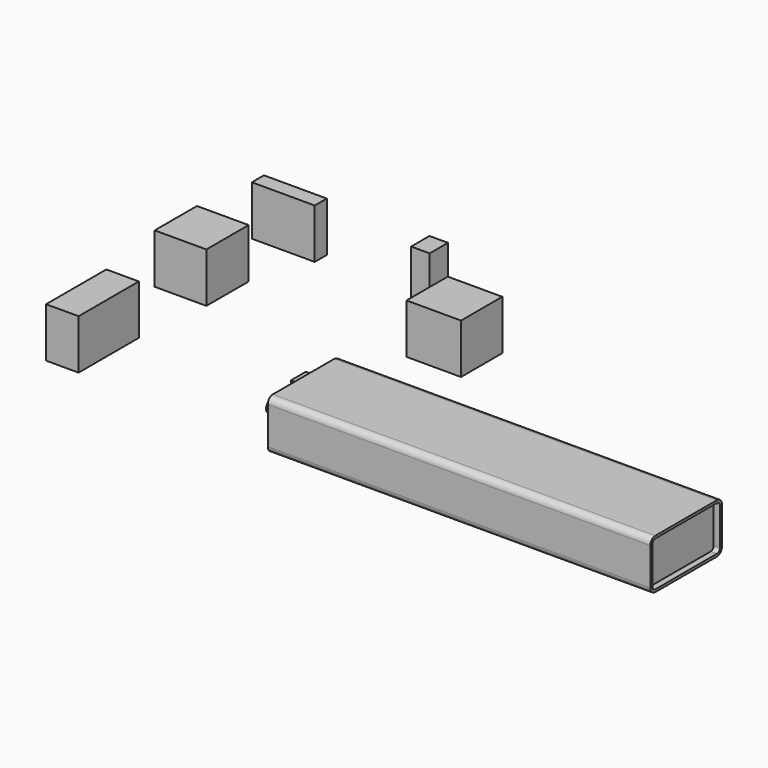
from build123d import *

# Parameters (mm, degrees)
F0_W     = 16.618398
F0_H     = 38.506252
F0_W_2   = 26.423264
F0_H_2   = 27.000825
F0_W_3   = 32.138111
F0_H_3   = 7.713083
F0_W_4   = 9.466055
F0_H_4   = 11.701052
F0_W_5   = 27.874055
F0_H_5   = 26.37086
F0_W_6   = 195.58
F0_H_6   = 45.72
F1_DEPTH = 25.4
F2_R     = 3.175
F4_DEPTH = 3.175
F6_DEPTH = 3.175
F7_W     = 9.525
F7_H     = 12.7
F7_R     = 3.175
F8_DEPTH = 12.7


with BuildPart() as f1:
    # F0 (on Top) → F1 (new body)
    with BuildSketch(Plane.XY):
        with Locations((-78.119632, -48.44503)):
            Rectangle(F0_W, F0_H)
        with Locations((-79.23726, 22.737014)):
            Rectangle(F0_W_2, F0_H_2)
        with Locations((-72.070883, 69.790199)):
            Rectangle(F0_W_3, F0_H_3)
        with Locations((0.943256, 68.12576)):
            Rectangle(F0_W_4, F0_H_4)
        with Locations((37.811639, 37.912922)):
            Rectangle(F0_W_5, F0_H_5)
        with Locations((130.713382, -52.349573)):
            Rectangle(F0_W_6, F0_H_6)
    extrude(amount=F1_DEPTH)

    # F2
    f2_edges = [f1.edges().sort_by_distance(p)[0] for p in [
        (130.713382, -75.209573, 25.4),
        (130.713382, -75.209573, 0),
        (130.713382, -29.489573, 0),
        (130.713382, -29.489573, 25.4),
    ]]
    fillet(f2_edges, radius=F2_R)

    # F3 (on face) → F4 (cut)
    with BuildSketch(Plane.YZ.offset(228.503382)):
        with BuildLine():
            ThreePointArc((-73.939573, 22.225), (-72.034573, 20.32), (-70.129573, 22.225))
            ThreePointArc((-70.129573, 22.225), (-70.687534, 23.572038), (-72.034573, 24.13))
            ThreePointArc((-72.034573, 24.13), (-73.381611, 23.572038), (-73.939573, 22.225))
        make_face()
        with BuildLine():
            ThreePointArc((-72.034573, 24.13), (-70.687534, 23.572038), (-70.129573, 22.225))
            ThreePointArc((-70.129573, 22.225), (-72.034573, 20.32), (-73.939573, 22.225))
            Line((-73.939573, 22.225), (-73.939573, 3.175))
            ThreePointArc((-73.939573, 3.175), (-72.034573, 5.08), (-70.129573, 3.175))
            ThreePointArc((-70.129573, 3.175), (-70.687534, 1.827962), (-72.034573, 1.27))
            Line((-72.034573, 1.27), (-32.664573, 1.27))
            ThreePointArc((-32.664573, 1.27), (-34.011611, 4.522038), (-30.759573, 3.175))
            Line((-30.759573, 3.175), (-30.759573, 22.225))
            ThreePointArc((-30.759573, 22.225), (-34.011611, 20.877962), (-32.664573, 24.13))
            Line((-32.664573, 24.13), (-72.034573, 24.13))
        make_face()
        with BuildLine():
            ThreePointArc((-30.759573, 22.225), (-31.317534, 23.572038), (-32.664573, 24.13))
            ThreePointArc((-32.664573, 24.13), (-34.011611, 20.877962), (-30.759573, 22.225))
        make_face()
        with BuildLine():
            ThreePointArc((-70.129573, 3.175), (-72.034573, 5.08), (-73.939573, 3.175))
            ThreePointArc((-73.939573, 3.175), (-73.381611, 1.827962), (-72.034573, 1.27))
            ThreePointArc((-72.034573, 1.27), (-70.687534, 1.827962), (-70.129573, 3.175))
        make_face()
        with BuildLine():
            ThreePointArc((-32.664573, 1.27), (-31.317534, 1.827962), (-30.759573, 3.175))
            ThreePointArc((-30.759573, 3.175), (-34.011611, 4.522038), (-32.664573, 1.27))
        make_face()
    extrude(amount=-F4_DEPTH, mode=Mode.SUBTRACT)

    # F5 (on face) → F6 (cut)
    with BuildSketch(Plane(origin=(32.923382, 0, 0), x_dir=(0, -1, 0), z_dir=(-1, 0, 0))):
        with BuildLine():
            ThreePointArc((30.759573, 22.225), (32.664573, 20.32), (34.569573, 22.225))
            ThreePointArc((34.569573, 22.225), (34.011611, 23.572038), (32.664573, 24.13))
            ThreePointArc((32.664573, 24.13), (31.317534, 23.572038), (30.759573, 22.225))
        make_face()
        with BuildLine():
            ThreePointArc((32.664573, 24.13), (34.011611, 23.572038), (34.569573, 22.225))
            ThreePointArc((34.569573, 22.225), (32.664573, 20.32), (30.759573, 22.225))
            Line((30.759573, 22.225), (30.759573, 3.175))
            ThreePointArc((30.759573, 3.175), (32.664573, 5.08), (34.569573, 3.175))
            ThreePointArc((34.569573, 3.175), (34.011611, 1.827962), (32.664573, 1.27))
            Line((32.664573, 1.27), (72.034573, 1.27))
            ThreePointArc((72.034573, 1.27), (70.687534, 4.522038), (73.939573, 3.175))
            Line((73.939573, 3.175), (73.939573, 22.225))
            ThreePointArc((73.939573, 22.225), (70.687534, 20.877962), (72.034573, 24.13))
            Line((72.034573, 24.13), (32.664573, 24.13))
        make_face()
        with BuildLine():
            ThreePointArc((73.939573, 22.225), (73.381611, 23.572038), (72.034573, 24.13))
            ThreePointArc((72.034573, 24.13), (70.687534, 20.877962), (73.939573, 22.225))
        make_face()
        with BuildLine():
            ThreePointArc((34.569573, 3.175), (32.664573, 5.08), (30.759573, 3.175))
            ThreePointArc((30.759573, 3.175), (31.317534, 1.827962), (32.664573, 1.27))
            ThreePointArc((32.664573, 1.27), (34.011611, 1.827962), (34.569573, 3.175))
        make_face()
        with BuildLine():
            ThreePointArc((72.034573, 1.27), (73.381611, 1.827962), (73.939573, 3.175))
            ThreePointArc((73.939573, 3.175), (70.687534, 4.522038), (72.034573, 1.27))
        make_face()
    extrude(amount=-F6_DEPTH, mode=Mode.SUBTRACT)

    # F7 (on face) → F8 (join)
    with BuildSketch(Plane(origin=(36.098382, 0, 0), x_dir=(0, -1, 0), z_dir=(-1, 0, 0))):
        with Locations((43.777073, 12.7)):
            Rectangle(F7_W, F7_H)
        with Locations((61.239573, 12.7)):
            Circle(F7_R)
    extrude(amount=F8_DEPTH)


solid = f1.part
